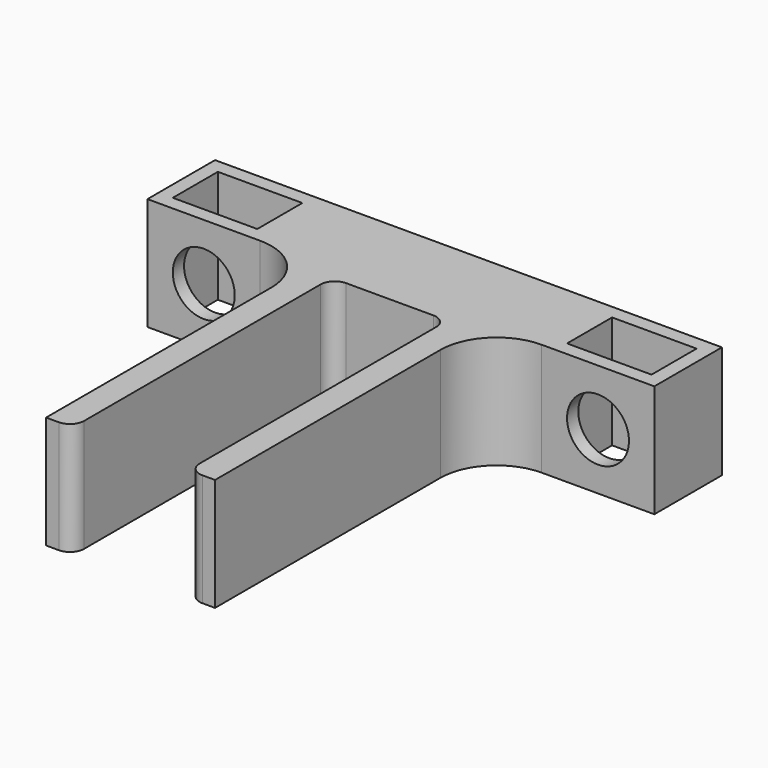
from build123d import *

# Parameters (mm, degrees)
F0_W      = 180
F0_H      = 40
F1_DEPTH  = 15
F2_W      = 60
F2_H      = 40
F3_DEPTH  = 120
F4_W      = 41
F4_H      = 40
F5_DEPTH  = 115
F6_R      = 20
F7_R      = 5
F8_W      = 30
F8_H      = 20
F9_DEPTH  = 40
F10_W     = 30
F10_H     = 20
F11_DEPTH = 40
F13_D     = 22
F13_DEPTH = 12
F13_TIP   = 6.6094668093
F15_D     = 22
F15_DEPTH = 12
F15_TIP   = 6.6094668093


with BuildPart() as f1:
    # F0 (on Front) → F1 (new body, symmetric)
    with BuildSketch(Plane.XZ):
        with Locations((0, 6.5696623251)):
            Rectangle(F0_W, F0_H)
        with Locations((0, 6.5696623251)):
            Rectangle(F0_W, F0_H)
    extrude(amount=F1_DEPTH, both=True)

    # F2 (on face) → F3 (join)
    with BuildSketch(Plane.XZ.offset(15)):
        with Locations((0, 6.5696623251)):
            Rectangle(F2_W, F2_H)
        with Locations((0, 6.5696623251)):
            Rectangle(F2_W, F2_H)
    extrude(amount=F3_DEPTH)

    # F4 (on face) → F5 (cut)
    with BuildSketch(Plane.XZ.offset(135)):
        with Locations((0, 6.5696623251)):
            Rectangle(F4_W, F4_H)
    extrude(amount=-F5_DEPTH, mode=Mode.SUBTRACT)

    # F6
    f6_edges = [f1.edges().sort_by_distance(p)[0] for p in [
        (-30, -15, 6.569662),
        (30, -15, 6.569662),
    ]]
    fillet(f6_edges, radius=F6_R)

    # F7
    f7_edges = [f1.edges().sort_by_distance(p)[0] for p in [
        (-20.5, -20, 6.569662),
        (20.5, -20, 6.569662),
        (-20.5, -135, 6.569662),
        (20.5, -135, 6.569662),
    ]]
    fillet(f7_edges, radius=F7_R)

    # F8 (on face) → F9 (cut)
    with BuildSketch(Plane.XY.offset(26.5696623251)):
        with Locations((-70, 0)):
            Rectangle(F8_W, F8_H)
    extrude(amount=-F9_DEPTH, mode=Mode.SUBTRACT)

    # F10 (on face) → F11 (cut)
    with BuildSketch(Plane.XY.offset(26.5696623251)):
        with Locations((70, 0)):
            Rectangle(F10_W, F10_H)
    extrude(amount=-F11_DEPTH, mode=Mode.SUBTRACT)

    # F13
    with Locations(Plane.XZ.offset(15)):
        with Locations((-70, 6.5696623251)):
            Hole(F13_D / 2, depth=F13_DEPTH)
            with Locations((0, 0, -(F13_DEPTH + F13_TIP / 2))):  # 118° drill point
                Cone(0, F13_D / 2, F13_TIP, mode=Mode.SUBTRACT)

    # F15
    with Locations(Plane.XZ.offset(15)):
        with Locations((70, 6.5696623251)):
            Hole(F15_D / 2, depth=F15_DEPTH)
            with Locations((0, 0, -(F15_DEPTH + F15_TIP / 2))):  # 118° drill point
                Cone(0, F15_D / 2, F15_TIP, mode=Mode.SUBTRACT)


solid = f1.part
